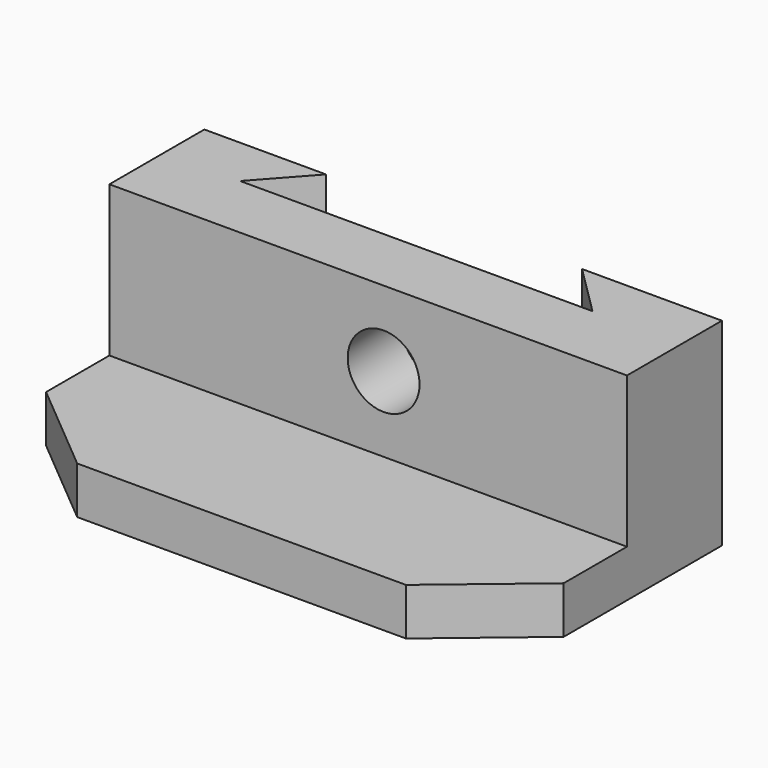
from build123d import *

# Parameters (mm, degrees)
F0_W     = 83.0704942346
F0_H     = 31.7708207294
F1_DEPTH = 19.05
F3_DEPTH = 35.052
F4_W     = 83.0704942346
F4_H     = 7.5783608481
F5_DEPTH = 25.4
F7_DEPTH = 25.4
F8_R     = 5.7653950386
F9_DEPTH = 25.4


with BuildPart() as f1:
    # F0 (on Front) → F1 (new body)
    with BuildSketch(Plane.XZ):
        with Locations((-2.4775415659, 27.3986891843)):
            Rectangle(F0_W, F0_H)
    extrude(amount=-F1_DEPTH)

    # F2 (on face) → F3 (cut)
    with BuildSketch(Plane(origin=(0, 0, 11.5132788196), x_dir=(1, 0, 0), z_dir=(0, 0, -1))):
        Polygon((-31.7708216608, -10.9303286299), (-24.4839340448, -19.05), (16.6140999645, -19.05), (24.775410071, -10.9303286299), align=None)
    extrude(amount=-F3_DEPTH, mode=Mode.SUBTRACT)

    # F4 (on face) → F5 (join)
    with BuildSketch(Plane.XZ):
        with Locations((-2.4775415659, 15.3024592437)):
            Rectangle(F4_W, F4_H)
    extrude(amount=F5_DEPTH)

    # F6 (on face) → F7 (cut)
    with BuildSketch(Plane.XY.offset(19.0916396677)):
        Polygon((39.0577055514, -25.4), (39.0577055514, -12.7), (23.9009838551, -25.4), align=None)
        Polygon((-44.0127886832, -25.4), (-28.8560669869, -25.4), (-44.0127886832, -12.7), align=None)
    extrude(amount=-F7_DEPTH, mode=Mode.SUBTRACT)

    # F8 (on face) → F9 (cut)
    with BuildSketch(Plane.XZ):
        with Locations((0, 31.1878696084)):
            Circle(F8_R)
    extrude(amount=-F9_DEPTH, mode=Mode.SUBTRACT)


solid = f1.part
